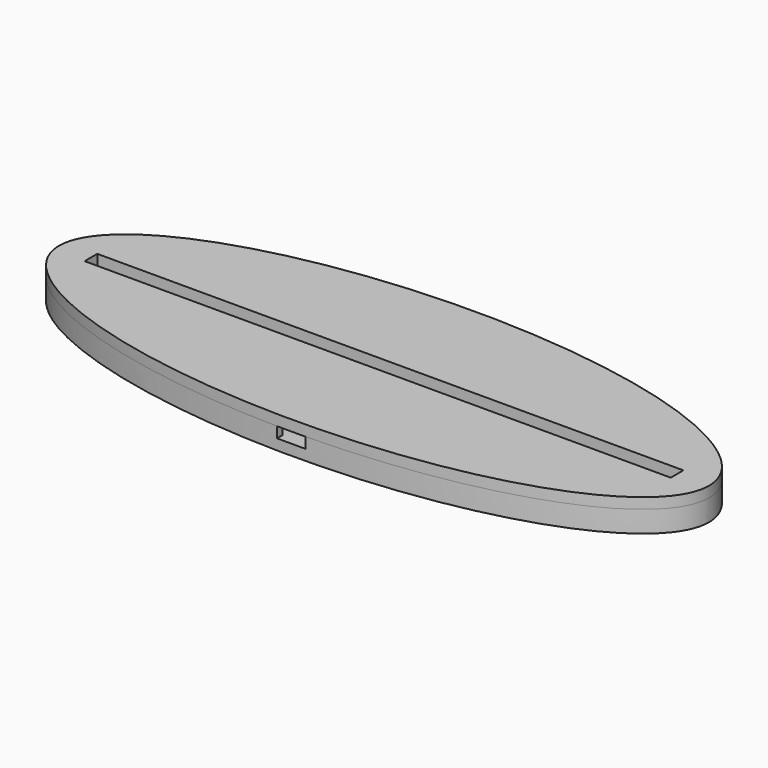
from build123d import *

# Parameters (mm, degrees)
PAD_DEPTH       = 6
POCKET_DEPTH    = 3
SKETCH002_W     = 18
SKETCH002_H     = 20
POCKET001_DEPTH = 3
SKETCH003_W     = 12
SKETCH003_H     = 5.5
SKETCH003_W_2   = 8
SKETCH003_H_2   = 2.1
POCKET002_DEPTH = 3
PAD001_DEPTH    = 3
SKETCH005_W     = 164.15
SKETCH005_H     = 4.44
POCKET003_DEPTH = 3


with BuildPart() as part:
    # Sketch → Pad (new body)
    with BuildSketch(Plane.XY):
        with BuildLine():
            add(Edge.make_bspline(
                [(91.001374, 0), (91.001374, 56.291651), (-45.500687, 28.145826), (-182.002747, 0), (-45.500687, -28.145826), (91.001374, -56.291651), (91.001374, 0)],
                knots=[0, 0, 0, 2.094395, 2.094395, 4.18879, 4.18879, 6.283185, 6.283185, 6.283185], degree=2, weights=[1, 0.5, 1, 0.5, 1, 0.5, 1]))
        make_face()
    extrude(amount=PAD_DEPTH)

    # Sketch001 (on Face3 of Pad) → Pocket (cut)
    with BuildSketch(Plane.XY.offset(6)):
        with BuildLine():
            ThreePointArc((-82.8, 5), (-87.8, 0), (-82.8, -5))
            Line((-82.8, -5), (82.8, -5))
            ThreePointArc((82.8, -5), (87.8, 0), (82.8, 5))
            Line((-82.8, 5), (82.8, 5))
        make_face()
    extrude(amount=-POCKET_DEPTH, mode=Mode.SUBTRACT)

    # Sketch002 (on Face3 of Pocket) → Pocket001 (cut)
    with BuildSketch(Plane.XY.offset(6)):
        with Locations((0, -20.5)):
            Rectangle(SKETCH002_W, SKETCH002_H)
    extrude(amount=-POCKET001_DEPTH, mode=Mode.SUBTRACT)

    # Sketch003 (on Face3 of Pocket001) → Pocket002 (cut)
    with BuildSketch(Plane.XY.offset(6)):
        with Locations((0, -7.75)):
            Rectangle(SKETCH003_W, SKETCH003_H)
        with Locations((0, -31.55)):
            Rectangle(SKETCH003_W_2, SKETCH003_H_2)
    extrude(amount=-POCKET002_DEPTH, mode=Mode.SUBTRACT)

    # Sketch004 (on Face3 of Pocket002) → Pad001 (join)
    with BuildSketch(Plane.XY.offset(6)):
        with BuildLine():
            add(Edge.make_bspline(
                [(91.001374, 0), (91.001374, 56.291651), (-45.500687, 28.145826), (-182.002747, 0), (-45.500687, -28.145826), (91.001374, -56.291651), (91.001374, 0)],
                knots=[0, 0, 0, 2.094395, 2.094395, 4.18879, 4.18879, 6.283185, 6.283185, 6.283185], degree=2, weights=[1, 0.5, 1, 0.5, 1, 0.5, 1]))
        make_face()
    extrude(amount=PAD001_DEPTH)

    # Sketch005 (on Face8 of Pad001) → Pocket003 (cut)
    with BuildSketch(Plane.XY.offset(9)):
        Rectangle(SKETCH005_W, SKETCH005_H)
    extrude(amount=-POCKET003_DEPTH, mode=Mode.SUBTRACT)


solid = part.part
